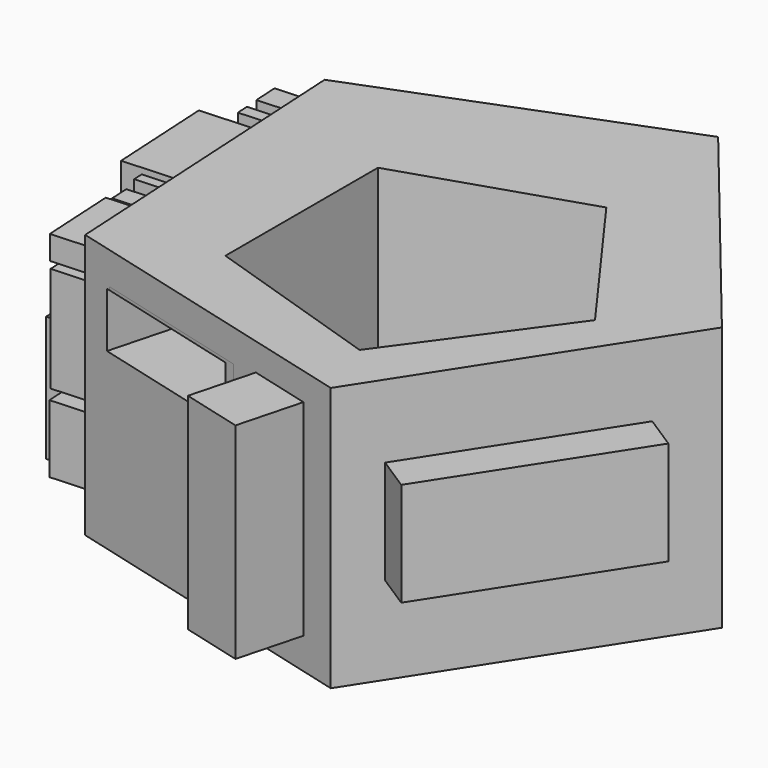
from build123d import *

# Parameters (mm, degrees)
F1_DEPTH  = 25.4
F2_DEPTH  = 25.4
F3_W      = 42.2709332779
F3_H      = 19.9366761371
F4_DEPTH  = 7.62
F5_W      = 11.9896456599
F5_H      = 39.5106691867
F6_DEPTH  = 12.7
F7_W      = 31.212631613
F7_H      = 11.2281162292
F8_DEPTH  = 7.62
F9_W      = 29.9386493862
F9_H      = 10.5491885915
F10_DEPTH = 12.7
F11_W     = 4.0996596217
F11_H     = 30.3628398106
F12_DEPTH = 5.08
F13_W     = 20.0984636322
F13_H     = 7.4342815205
F13_W_2   = 5.3358711302
F13_H_2   = 15.8698209561
F13_W_3   = 25.2564756665
F13_H_3   = 6.7615092266
F13_W_4   = 3.9129797369
F13_H_4   = 16.0269849002
F13_W_5   = 19.5648819208
F13_H_5   = 4.9852463417
F13_W_6   = 21.8770895153
F13_H_6   = 8.1112636253
F13_W_7   = 3.8565089926
F13_H_7   = 24.0716314875
F14_DEPTH = 12.7
F15_W     = 2.3439750075
F15_H     = 14.3474126235
F15_W_2   = 10.4969404638
F15_H_2   = 5.3929993883
F15_W_3   = 4.6879537404
F15_H_3   = 12.7176120877
F15_W_4   = 2.7516260743
F15_H_4   = 18.800791353
F15_W_5   = 6.8281069398
F15_H_5   = 3.639341332
F15_W_6   = 10.8026759699
F15_H_6   = 4.3754521757
F15_W_7   = 4.6879523434
F15_H_7   = 8.343886584
F15_W_8   = 3.7707453594
F15_H_8   = 8.649148047
F15_W_9   = 6.2166322023
F15_H_9   = 3.6631692201
F15_W_10  = 14.7772468626
F15_H_10  = 2.1284492686
F15_W_11  = 18.8184157014
F15_H_11  = 3.3579049632
F15_W_12  = 3.6688325927
F15_H_12  = 10.0737148896
F15_W_13  = 1.9363295287
F15_H_13  = 7.4342815205
F15_W_14  = 14.4715099595
F15_H_14  = 4.57723625
F15_W_15  = 8.7644355372
F15_H_15  = 4.8842262477
F15_W_16  = 3.9745708928
F15_H_16  = 20.249187015
F15_W_17  = 2.5478007738
F15_H_17  = 4.1719428264
F15_W_18  = 4.586043302
F15_H_18  = 13.0246016197
F16_DEPTH = 7.62
F17_W     = 61.8985138723
F17_H     = 50.8
F17_W_2   = 21.8770895153
F17_H_2   = 8.1112636253
F17_W_3   = 2.7516260743
F17_H_3   = 18.800791353
F17_W_4   = 6.8281069398
F17_H_4   = 3.639341332
F17_W_5   = 19.5648819208
F17_H_5   = 4.9852463417
F17_W_6   = 3.7707453594
F17_H_6   = 8.649148047
F17_W_7   = 4.6879523434
F17_H_7   = 8.343886584
F17_W_8   = 3.9129797369
F17_H_8   = 16.0269849002
F17_W_9   = 10.8026759699
F17_H_9   = 4.3754521757
F17_W_10  = 3.8565089926
F17_H_10  = 24.0716314875
F17_W_11  = 4.586043302
F17_H_11  = 13.0246016197
F17_W_12  = 10.4969404638
F17_H_12  = 5.3929993883
F17_W_13  = 5.3358711302
F17_H_13  = 15.8698209561
F17_W_14  = 6.2166322023
F17_H_14  = 3.6631692201
F17_W_15  = 4.6879537404
F17_H_15  = 12.7176120877
F17_W_16  = 2.3439750075
F17_H_16  = 14.3474126235
F17_W_17  = 20.0984636322
F17_H_17  = 7.4342815205
F17_W_18  = 25.2564756665
F17_H_18  = 6.7615092266
F17_W_19  = 14.7772468626
F17_H_19  = 2.1284492686
F17_W_20  = 18.8184157014
F17_H_20  = 3.3579049632
F17_W_21  = 2.5478007738
F17_H_21  = 4.1719428264
F17_W_22  = 3.9745708928
F17_H_22  = 20.249187015
F17_W_23  = 1.9363295287
F17_W_24  = 3.6688325927
F17_H_23  = 10.0737148896
F17_W_25  = 8.7644355372
F17_H_24  = 4.8842262477
F17_W_26  = 14.4715099595
F17_H_25  = 4.57723625
F18_DEPTH = 5.08
F20_DEPTH = 76.2
F21_DEPTH = 5.08


with BuildPart() as f1:
    # F0 (on Top) → F1 (new body)
    with BuildSketch(Plane.XY):
        Polygon((-16.7726497146, -31.6705114622), (16.7726497146, 20.3500508744), (-22.335777472, 68.3287643065), (-80.051414149, 45.9606776074), (-76.6132121111, -15.842273668), align=None)
    extrude(amount=F1_DEPTH)

    # F2 (add): a face of the model
    f2_faces = [f1.faces().sort_by_distance(p)[0] for p in [
        (-35.8000807464, 17.4253415316, 0),
    ]]
    extrude(f2_faces, amount=F2_DEPTH)

    # F3 (on face) → F4 (join)
    with BuildSketch(Plane(origin=(2.5779849193, -1.6624056365, 0), x_dir=(0.5419403041, 0.8404169839, 0), z_dir=(0.8404169839, -0.5419403041, 0))):
        with Locations((-5.966336932, 1.3790032826)):
            Rectangle(F3_W, F3_H)
    extrude(amount=F4_DEPTH)

    # F5 (on face) → F6 (join)
    with BuildSketch(Plane(origin=(-8.9260455296, -33.7459919046, 0), x_dir=(0.9667528128, -0.2557127272, 0), z_dir=(-0.2557127272, -0.9667528128, 0))):
        with Locations((-20.9904853255, 0.3661895171)):
            Rectangle(F5_W, F5_H)
    extrude(amount=F6_DEPTH)

    # F7 (on face) → F8 (join)
    with BuildSketch(Plane(origin=(-8.9260455296, -33.7459919046, 0), x_dir=(0.9667528128, -0.2557127272, 0), z_dir=(-0.2557127272, -0.9667528128, 0))):
        with Locations((-48.2821147889, 13.5751133785)):
            Rectangle(F7_W, F7_H)
    extrude(amount=-F8_DEPTH)

    # F9 (on face) → F10 (cut)
    with BuildSketch(Plane(origin=(-8.9260455296, -33.7459919046, 0), x_dir=(0.9667528128, -0.2557127272, 0), z_dir=(-0.2557127272, -0.9667528128, 0))):
        with Locations((-49.556100741, 13.31924228)):
            Rectangle(F9_W, F9_H)
    extrude(amount=-F10_DEPTH, mode=Mode.SUBTRACT)

    # F11 (on face) → F12 (join)
    with BuildSketch(Plane(origin=(-26.0881225645, 6.9004867437, 0), x_dir=(-0.2557127272, -0.9667528128, 0), z_dir=(-0.9667528128, 0.2557127272, 0))):
        with Locations((41.5847562253, 1.0980186053)):
            Rectangle(F11_W, F11_H)
    extrude(amount=F12_DEPTH)

    # F13 (on face) → F14 (join)
    with BuildSketch(Plane(origin=(-77.2554477784, -4.2978503859, 0), x_dir=(0.055545793, -0.9984561407, 0), z_dir=(-0.9984561407, -0.055545793, 0))):
        with Locations((-25.5797388963, 18.8945052214)):
            Rectangle(F13_W, F13_H)
        with Locations((-32.961031422, 5.5121385958)):
            Rectangle(F13_W_2, F13_H_2)
        with Locations((-15.5305069638, 1.3388268417)):
            Rectangle(F13_W_3, F13_H_3)
        with Locations((-17.3091338947, -12.3113878071)):
            Rectangle(F13_W_4, F13_H_4)
        with Locations((-31.1824083328, -7.7815449331)):
            Rectangle(F13_W_5, F13_H_5)
        with Locations((-31.9827897474, -16.2692484446)):
            Rectangle(F13_W_6, F13_H_6)
        with Locations((1.9282544963, -7.5779159088)):
            Rectangle(F13_W_7, F13_H_7)
    extrude(amount=F14_DEPTH)

    # F15 (on face) → F16 (join)
    with BuildSketch(Plane(origin=(-77.2554477784, -4.2978503859, 0), x_dir=(0.055545793, -0.9984561407, 0), z_dir=(-0.9984561407, -0.055545793, 0))):
        with Locations((-39.761338383, 15.3379100375)):
            Rectangle(F15_W, F15_H)
        with Locations((-42.4110535532, 4.5519121923)):
            Rectangle(F15_W_2, F15_H_2)
        with Locations((-45.7231942564, 16.2528399378)):
            Rectangle(F15_W_3, F15_H_3)
        with Locations((-45.9779724479, -9.4003956765)):
            Rectangle(F15_W_4, F15_H_4)
        with Locations((-39.9651639163, -1.819670666)):
            Rectangle(F15_W_5, F15_H_5)
        with Locations((-7.5061791576, -6.2340861186)):
            Rectangle(F15_W_6, F15_H_6)
        with Locations((-4.7545537818, -13.407792896)):
            Rectangle(F15_W_7, F15_H_7)
        with Locations((-10.7164080255, -13.8656888157)):
            Rectangle(F15_W_8, F15_H_8)
        with Locations((-24.066885002, 8.0624492839)):
            Rectangle(F15_W_9, F15_H_9)
        with Locations((-19.1751066595, 12.3828244396)):
            Rectangle(F15_W_10, F15_H_10)
        with Locations((-9.4092078507, 8.2150814123)):
            Rectangle(F15_W_11, F15_H_11)
        with Locations((-7.9138264991, 16.7624759488)):
            Rectangle(F15_W_12, F15_H_12)
        with Locations((-12.7546479926, 18.8945052214)):
            Rectangle(F15_W_13, F15_H_13)
        with Locations((2.7869374026, 20.3230278566)):
            Rectangle(F15_W_14, F15_H_14)
        with Locations((0.3410479985, 13.9642218128)):
            Rectangle(F15_W_15, F15_H_15)
        with Locations((7.8315832652, 6.4852521755)):
            Rectangle(F15_W_16, F15_H_16)
        with Locations((2.5321574649, 7.8080624808)):
            Rectangle(F15_W_17, F15_H_17)
        with Locations((7.831583498, -11.9832272176)):
            Rectangle(F15_W_18, F15_H_18)
    extrude(amount=F16_DEPTH)

    # F17 (on face) → F18 (cut)
    with BuildSketch(Plane(origin=(-77.2554477784, -4.2978503859, 0), x_dir=(0.055545793, -0.9984561407, 0), z_dir=(-0.9984561407, -0.055545793, 0))):
        with Locations((-19.38698313, 0)):
            Rectangle(F17_W, F17_H)
        with Locations((-31.9827897474, -16.2692484446)):
            Rectangle(F17_W_2, F17_H_2, mode=Mode.SUBTRACT)
        with Locations((-45.9779724479, -9.4003956765)):
            Rectangle(F17_W_3, F17_H_3, mode=Mode.SUBTRACT)
        with Locations((-39.9651639163, -1.819670666)):
            Rectangle(F17_W_4, F17_H_4, mode=Mode.SUBTRACT)
        with Locations((-31.1824083328, -7.7815449331)):
            Rectangle(F17_W_5, F17_H_5, mode=Mode.SUBTRACT)
        with Locations((-10.7164080255, -13.8656888157)):
            Rectangle(F17_W_6, F17_H_6, mode=Mode.SUBTRACT)
        with Locations((-4.7545537818, -13.407792896)):
            Rectangle(F17_W_7, F17_H_7, mode=Mode.SUBTRACT)
        with Locations((-17.3091338947, -12.3113878071)):
            Rectangle(F17_W_8, F17_H_8, mode=Mode.SUBTRACT)
        with Locations((-7.5061791576, -6.2340861186)):
            Rectangle(F17_W_9, F17_H_9, mode=Mode.SUBTRACT)
        with Locations((1.9282544963, -7.5779159088)):
            Rectangle(F17_W_10, F17_H_10, mode=Mode.SUBTRACT)
        with Locations((7.831583498, -11.9832272176)):
            Rectangle(F17_W_11, F17_H_11, mode=Mode.SUBTRACT)
        with Locations((-42.4110535532, 4.5519121923)):
            Rectangle(F17_W_12, F17_H_12, mode=Mode.SUBTRACT)
        with Locations((-32.961031422, 5.5121385958)):
            Rectangle(F17_W_13, F17_H_13, mode=Mode.SUBTRACT)
        with Locations((-24.066885002, 8.0624492839)):
            Rectangle(F17_W_14, F17_H_14, mode=Mode.SUBTRACT)
        with Locations((-45.7231942564, 16.2528399378)):
            Rectangle(F17_W_15, F17_H_15, mode=Mode.SUBTRACT)
        with Locations((-39.761338383, 15.3379100375)):
            Rectangle(F17_W_16, F17_H_16, mode=Mode.SUBTRACT)
        with Locations((-25.5797388963, 18.8945052214)):
            Rectangle(F17_W_17, F17_H_17, mode=Mode.SUBTRACT)
        with Locations((-15.5305069638, 1.3388268417)):
            Rectangle(F17_W_18, F17_H_18, mode=Mode.SUBTRACT)
        with Locations((-19.1751066595, 12.3828244396)):
            Rectangle(F17_W_19, F17_H_19, mode=Mode.SUBTRACT)
        with Locations((-9.4092078507, 8.2150814123)):
            Rectangle(F17_W_20, F17_H_20, mode=Mode.SUBTRACT)
        with Locations((2.5321574649, 7.8080624808)):
            Rectangle(F17_W_21, F17_H_21, mode=Mode.SUBTRACT)
        with Locations((7.8315832652, 6.4852521755)):
            Rectangle(F17_W_22, F17_H_22, mode=Mode.SUBTRACT)
        with Locations((-12.7546479926, 18.8945052214)):
            Rectangle(F17_W_23, F17_H_17, mode=Mode.SUBTRACT)
        with Locations((-7.9138264991, 16.7624759488)):
            Rectangle(F17_W_24, F17_H_23, mode=Mode.SUBTRACT)
        with Locations((0.3410479985, 13.9642218128)):
            Rectangle(F17_W_25, F17_H_24, mode=Mode.SUBTRACT)
        with Locations((2.7869374026, 20.3230278566)):
            Rectangle(F17_W_26, F17_H_25, mode=Mode.SUBTRACT)
    extrude(amount=-F18_DEPTH, mode=Mode.SUBTRACT)

    # F19 (on face) → F20 (cut)
    with BuildSketch(Plane.XY.offset(25.4)):
        Polygon((-55.9489503503, 28.6254710477), (-55.9489503503, -8.0040893477), (-21.1121682472, -19.3232460063), (0.4181471511, 10.31069085), (-21.1121682472, 39.9446277064), align=None)
    extrude(amount=-F20_DEPTH, mode=Mode.SUBTRACT)

    # F21 (add): a face of the model
    f21_faces = [f1.faces().sort_by_distance(p)[0] for p in [
        (-71.5855334196, -14.7605835197, 0),
    ]]
    extrude(f21_faces, amount=F21_DEPTH)


solid = f1.part
